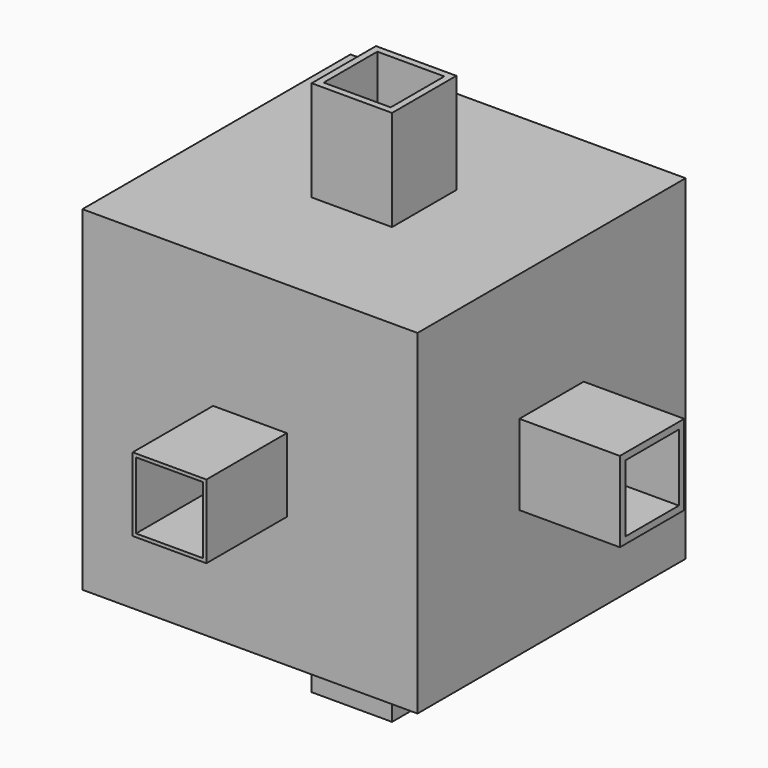
from build123d import *

# Parameters (mm, degrees)
F0_W      = 50
F0_H      = 50
F0_W_2    = 40
F0_H_2    = 40
F1_DEPTH  = 50
F2_DEPTH  = 5
F3_W      = 40
F3_H      = 40
F4_DEPTH  = 5
F5_W      = 10
F5_H      = 10
F6_DEPTH  = 10
F7_W      = 10
F7_H      = 10
F8_DEPTH  = 10
F9_W      = 10
F9_H      = 10
F10_DEPTH = 10
F11_W     = 10
F11_H     = 10
F12_DEPTH = 10
F13_W     = 10
F13_H     = 10
F14_DEPTH = 10
F15_W     = 10
F15_H     = 10
F16_DEPTH = 10
F17_W     = 11
F17_H     = 11
F17_W_2   = 10
F17_H_2   = 10
F18_DEPTH = 15
F19_W     = 12
F19_H     = 12
F19_W_2   = 10
F19_H_2   = 10
F20_DEPTH = 15
F21_W     = 12
F21_H     = 12
F21_W_2   = 10
F21_H_2   = 10
F22_DEPTH = 15
F23_W     = 12
F23_H     = 12
F23_W_2   = 10
F23_H_2   = 10
F24_DEPTH = 15
F25_W     = 12
F25_H     = 12
F25_W_2   = 10
F25_H_2   = 10
F26_DEPTH = 15
F27_W     = 12
F27_H     = 12
F27_W_2   = 10
F27_H_2   = 10
F28_DEPTH = 15
F29_W     = 11
F29_H     = 11
F30_DEPTH = 1


with BuildPart() as f1:
    # F0 (on Top) → F1 (new body)
    with BuildSketch(Plane.XY):
        Rectangle(F0_W, F0_H)
        Rectangle(F0_W_2, F0_H_2, mode=Mode.SUBTRACT)
    extrude(amount=F1_DEPTH)

    # F0 (on Top) → F2 (join)
    with BuildSketch(Plane.XY):
        Rectangle(F0_W_2, F0_H_2)
    extrude(amount=F2_DEPTH)

    # F3 (on face) → F4 (join)
    with BuildSketch(Plane.XY.offset(50)):
        Rectangle(F3_W, F3_H)
    extrude(amount=-F4_DEPTH)

    # F5 (on face) → F6 (cut)
    with BuildSketch(Plane.XY.offset(50)):
        Rectangle(F5_W, F5_H)
    extrude(amount=-F6_DEPTH, mode=Mode.SUBTRACT)

    # F7 (on face) → F8 (cut)
    with BuildSketch(Plane.XZ.offset(25)):
        with Locations((0, 25)):
            Rectangle(F7_W, F7_H)
    extrude(amount=-F8_DEPTH, mode=Mode.SUBTRACT)

    # F9 (on face) → F10 (cut)
    with BuildSketch(Plane(origin=(0, 0, 0), x_dir=(1, 0, 0), z_dir=(0, 0, -1))):
        Rectangle(F9_W, F9_H)
    extrude(amount=-F10_DEPTH, mode=Mode.SUBTRACT)

    # F11 (on face) → F12 (cut)
    with BuildSketch(Plane(origin=(0, 25, 0), x_dir=(-1, 0, 0), z_dir=(0, 1, 0))):
        with Locations((0, 25)):
            Rectangle(F11_W, F11_H)
    extrude(amount=-F12_DEPTH, mode=Mode.SUBTRACT)

    # F13 (on face) → F14 (cut)
    with BuildSketch(Plane(origin=(-25, 0, 0), x_dir=(0, -1, 0), z_dir=(-1, 0, 0))):
        with Locations((0, 25)):
            Rectangle(F13_W, F13_H)
    extrude(amount=-F14_DEPTH, mode=Mode.SUBTRACT)

    # F15 (on face) → F16 (cut)
    with BuildSketch(Plane.YZ.offset(25)):
        with Locations((0, 25)):
            Rectangle(F15_W, F15_H)
    extrude(amount=-F16_DEPTH, mode=Mode.SUBTRACT)

    # F17 (on face) → F18 (join)
    with BuildSketch(Plane.XZ.offset(25)):
        with Locations((0, 25)):
            Rectangle(F17_W, F17_H)
        with Locations((0, 25)):
            Rectangle(F17_W_2, F17_H_2, mode=Mode.SUBTRACT)
    extrude(amount=F18_DEPTH)

    # F19 (on face) → F20 (join)
    with BuildSketch(Plane.XY.offset(50)):
        Rectangle(F19_W, F19_H)
        Rectangle(F19_W_2, F19_H_2, mode=Mode.SUBTRACT)
    extrude(amount=F20_DEPTH)

    # F21 (on face) → F22 (join)
    with BuildSketch(Plane(origin=(0, 25, 0), x_dir=(-1, 0, 0), z_dir=(0, 1, 0))):
        with Locations((0, 25)):
            Rectangle(F21_W, F21_H)
        with Locations((0, 25)):
            Rectangle(F21_W_2, F21_H_2, mode=Mode.SUBTRACT)
    extrude(amount=F22_DEPTH)

    # F23 (on face) → F24 (join)
    with BuildSketch(Plane.XY):
        Rectangle(F23_W, F23_H)
        Rectangle(F23_W_2, F23_H_2, mode=Mode.SUBTRACT)
    extrude(amount=-F24_DEPTH)

    # F25 (on face) → F26 (join)
    with BuildSketch(Plane.YZ.offset(25)):
        with Locations((0, 25)):
            Rectangle(F25_W, F25_H)
        with Locations((0, 25)):
            Rectangle(F25_W_2, F25_H_2, mode=Mode.SUBTRACT)
    extrude(amount=F26_DEPTH)

    # F27 (on face) → F28 (join)
    with BuildSketch(Plane(origin=(-25, 0, 0), x_dir=(0, -1, 0), z_dir=(-1, 0, 0))):
        with Locations((0, 25)):
            Rectangle(F27_W, F27_H)
        with Locations((0, 25)):
            Rectangle(F27_W_2, F27_H_2, mode=Mode.SUBTRACT)
    extrude(amount=F28_DEPTH)


with BuildPart() as f30:
    # F29 (on Top) → F30 (new body)
    with BuildSketch(Plane.XY):
        Rectangle(F29_W, F29_H)
    extrude(amount=F30_DEPTH)


solid = Compound([f1.part, f30.part])
